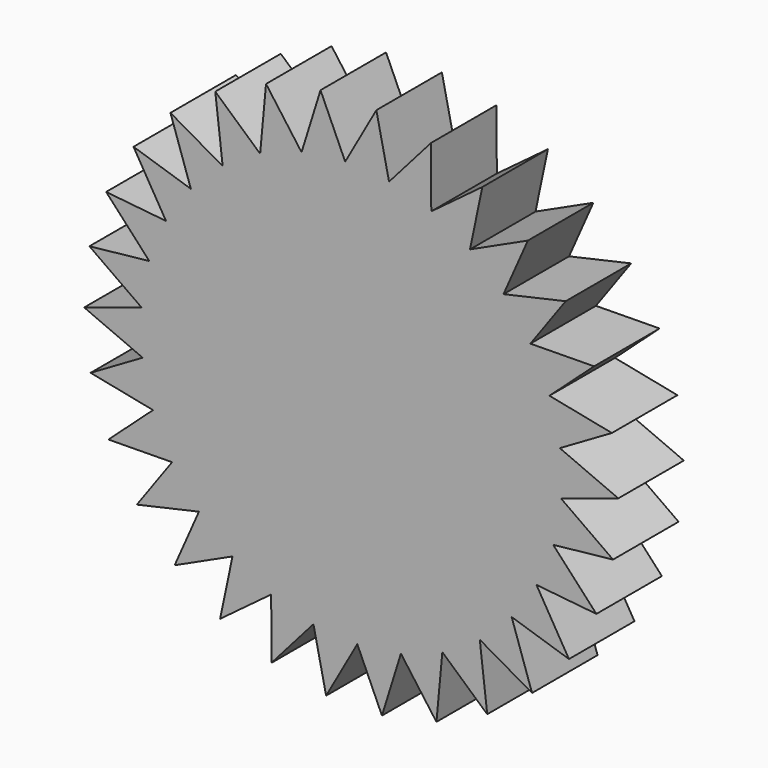
from build123d import *

# Parameters (mm, degrees)
F1_DEPTH = 10.16
F2_R     = 25.4
F3_DEPTH = 10.16


with BuildPart() as f1:
    # F0 (on Front) → F1 (new body)
    with BuildSketch(Plane.XZ):
        with BuildLine():
            ThreePointArc((25.2112005568, 3.0911755833), (25.3527562026, 1.5484679297), (25.4, 0))
            ThreePointArc((25.4, 0), (25.3888981273, -0.750900713), (25.3556022141, -1.5011450163))
            Line((25.3556022141, -1.5011450163), (26.0305752657, -1.9793416351))
            Line((26.0305752657, -1.9793416351), (33.1276639033, 0.3492854048))
            Line((33.1276639033, 0.3492854048), (25.8732730079, 3.475972645))
            Line((25.8732730079, 3.475972645), (25.2112005568, 3.0911755833))
        make_face()
        with BuildLine():
            ThreePointArc((25.1136270694, 3.803384732), (25.164933526, 3.4476253613), (25.2112005568, 3.0911755833))
            Line((25.2112005568, 3.0911755833), (25.8732730079, 3.475972645))
            Line((25.8732730079, 3.475972645), (25.1136270694, 3.803384732))
        make_face()
        with BuildLine():
            Line((26.0305752657, -1.9793416351), (25.3556022141, -1.5011450163))
            ThreePointArc((25.3556022141, -1.5011450163), (25.3318209693, -1.8597974033), (25.3029668784, -2.218077355))
            Line((25.3029668784, -2.218077355), (26.0305752657, -1.9793416351))
        make_face()
        with BuildLine():
            ThreePointArc((24.0175837941, 8.2653293156), (24.6667024062, 6.0591907386), (25.1136270694, 3.803384732))
            Line((25.1136270694, 3.803384732), (25.8732730079, 3.475972645))
            Line((25.8732730079, 3.475972645), (32.3311244458, 7.2292812957))
            Line((32.3311244458, 7.2292812957), (24.5851845659, 8.779370241))
            Line((24.5851845659, 8.779370241), (24.0175837941, 8.2653293156))
        make_face()
        with BuildLine():
            Line((26.0305752657, -1.9793416351), (25.3029668784, -2.218077355))
            ThreePointArc((25.3029668784, -2.218077355), (24.9986488389, -4.4975055562), (24.4894158724, -6.740067524))
            Line((24.4894158724, -6.740067524), (25.0502164758, -7.3481491879))
            Line((25.0502164758, -7.3481491879), (32.476365484, -6.5459759343))
            Line((32.476365484, -6.5459759343), (26.0305752657, -1.9793416351))
        make_face()
        with BuildLine():
            ThreePointArc((23.7740659132, 8.9416883169), (23.8982177329, 8.6043703541), (24.0175837941, 8.2653293156))
            Line((24.0175837941, 8.2653293156), (24.5851845659, 8.779370241))
            Line((24.5851845659, 8.779370241), (23.7740659132, 8.9416883169))
        make_face()
        with BuildLine():
            Line((25.0502164758, -7.3481491879), (24.4894158724, -6.740067524))
            ThreePointArc((24.4894158724, -6.740067524), (24.3915862806, -7.0859380971), (24.2888721303, -7.4303896694))
            Line((24.2888721303, -7.4303896694), (25.0502164758, -7.3481491879))
        make_face()
        with BuildLine():
            ThreePointArc((21.7742833704, 13.0782484953), (22.8678991852, 11.0552786875), (23.7740659132, 8.9416883169))
            Line((23.7740659132, 8.9416883169), (24.5851845659, 8.779370241))
            Line((24.5851845659, 8.779370241), (30.1215597081, 13.793322904))
            Line((30.1215597081, 13.793322904), (22.2226055856, 13.6990672294))
            Line((22.2226055856, 13.6990672294), (21.7742833704, 13.0782484953))
        make_face()
        with BuildLine():
            Line((25.0502164758, -7.3481491879), (24.2888721303, -7.4303896694))
            ThreePointArc((24.2888721303, -7.4303896694), (23.5172843987, -9.5967356174), (22.5529245438, -11.6844167386))
            Line((22.5529245438, -11.6844167386), (22.9750430216, -12.3958073608))
            Line((22.9750430216, -12.3958073608), (30.4056940542, -13.155146714))
            Line((30.4056940542, -13.155146714), (25.0502164758, -7.3481491879))
        make_face()
        with BuildLine():
            ThreePointArc((21.3954639959, 13.6891972153), (21.5870351485, 13.3850630741), (21.7742833704, 13.0782484953))
            Line((21.7742833704, 13.0782484953), (22.2226055856, 13.6990672294))
            Line((22.2226055856, 13.6990672294), (21.3954639959, 13.6891972153))
        make_face()
        with BuildLine():
            Line((22.9750430216, -12.3958073608), (22.5529245438, -11.6844167386))
            ThreePointArc((22.5529245438, -11.6844167386), (22.3853222277, -12.002389294), (22.2132371191, -12.3179583003))
            Line((22.2132371191, -12.3179583003), (22.9750430216, -12.3958073608))
        make_face()
        with BuildLine():
            ThreePointArc((18.5793422789, 17.3195854594), (20.0696590374, 15.5681979086), (21.3954639959, 13.6891972153))
            Line((21.3954639959, 13.6891972153), (22.2226055856, 13.6990672294))
            Line((22.2226055856, 13.6990672294), (26.5955382719, 19.7545301137))
            Line((26.5955382719, 19.7545301137), (18.8887921054, 18.0200492444))
            Line((18.8887921054, 18.0200492444), (18.5793422789, 17.3195854594))
        make_face()
        with BuildLine():
            Line((22.9750430216, -12.3958073608), (22.2132371191, -12.3179583003))
            ThreePointArc((22.2132371191, -12.3179583003), (21.0081017818, -14.2765422818), (19.6307621917, -16.1181008736))
            Line((19.6307621917, -16.1181008736), (19.8957499409, -16.9017092703))
            Line((19.8957499409, -16.9017092703), (27.0061478915, -19.1893744569))
            Line((27.0061478915, -19.1893744569), (22.9750430216, -12.3958073608))
        make_face()
        with BuildLine():
            ThreePointArc((18.0817776352, 17.8384225073), (18.332395542, 17.580764309), (18.5793422789, 17.3195854594))
            Line((18.5793422789, 17.3195854594), (18.8887921054, 18.0200492444))
            Line((18.8887921054, 18.0200492444), (18.0817776352, 17.8384225073))
        make_face()
        with BuildLine():
            Line((19.8957499409, -16.9017092703), (19.6307621917, -16.1181008736))
            ThreePointArc((19.6307621917, -16.1181008736), (19.4007121767, -16.3942784848), (19.166777055, -16.6671730454))
            Line((19.166777055, -16.6671730454), (19.8957499409, -16.9017092703))
        make_face()
        with BuildLine():
            ThreePointArc((14.5723947762, 20.8039734303), (16.3942784848, 19.4007121767), (18.0817776352, 17.8384225073))
            Line((18.0817776352, 17.8384225073), (18.8887921054, 18.0200492444))
            Line((18.8887921054, 18.0200492444), (21.9071641936, 24.8523695646))
            Line((21.9071641936, 24.8523695646), (14.7294477716, 21.5534686376))
            Line((14.7294477716, 21.5534686376), (14.5723947762, 20.8039734303))
        make_face()
        with BuildLine():
            Line((19.8957499409, -16.9017092703), (19.166777055, -16.6671730454))
            ThreePointArc((19.166777055, -16.6671730454), (17.580764309, -18.332395542), (15.850641333, -19.8473466572))
            Line((15.850641333, -19.8473466572), (15.9469171174, -20.6689253814))
            Line((15.9469171174, -20.6689253814), (22.4263034761, -24.3849344552))
            Line((22.4263034761, -24.3849344552), (19.8957499409, -16.9017092703))
        make_face()
        with BuildLine():
            ThreePointArc((13.9778308259, 21.2080231375), (14.2765422818, 21.0081017818), (14.5723947762, 20.8039734303))
            Line((14.5723947762, 20.8039734303), (14.7294477716, 21.5534686376))
            Line((14.7294477716, 21.5534686376), (13.9778308259, 21.2080231375))
        make_face()
        with BuildLine():
            Line((15.9469171174, -20.6689253814), (15.850641333, -19.8473466572))
            ThreePointArc((15.850641333, -19.8473466572), (15.5681979086, -20.0696590374), (15.2826368611, -20.2879523504))
            Line((15.2826368611, -20.2879523504), (15.9469171174, -20.6689253814))
        make_face()
        with BuildLine():
            ThreePointArc((9.9285636957, 23.3791279337), (12.002389294, 22.3853222277), (13.9778308259, 21.2080231375))
            Line((13.9778308259, 21.2080231375), (14.7294477716, 21.5534686376))
            Line((14.7294477716, 21.5534686376), (16.2613419179, 28.8640412107))
            Line((16.2613419179, 28.8640412107), (9.9263558905, 24.1448980264))
            Line((9.9263558905, 24.1448980264), (9.9285636957, 23.3791279337))
        make_face()
        with BuildLine():
            Line((15.9469171174, -20.6689253814), (15.2826368611, -20.2879523504))
            ThreePointArc((15.2826368611, -20.2879523504), (13.3850630741, -21.5870351485), (11.3777713882, -22.7091681538))
            Line((11.3777713882, -22.7091681538), (11.3011274941, -23.5328102727))
            Line((11.3011274941, -23.5328102727), (16.8663219854, -28.5147558059))
            Line((16.8663219854, -28.5147558059), (15.9469171174, -20.6689253814))
        make_face()
        with BuildLine():
            ThreePointArc((9.2629857364, 23.6507313893), (9.5967356174, 23.5172843987), (9.9285636957, 23.3791279337))
            Line((9.9285636957, 23.3791279337), (9.9263558905, 24.1448980264))
            Line((9.9263558905, 24.1448980264), (9.2629857364, 23.6507313893))
        make_face()
        with BuildLine():
            Line((11.3011274941, -23.5328102727), (11.3777713882, -22.7091681538))
            ThreePointArc((11.3777713882, -22.7091681538), (11.0552786875, -22.8678991852), (10.7305721022, -23.0220507853))
            Line((10.7305721022, -23.0220507853), (11.3011274941, -23.5328102727))
        make_face()
        with BuildLine():
            ThreePointArc((4.8508067391, 24.932502361), (7.0859380971, 24.3915862806), (9.2629857364, 23.6507313893))
            Line((9.2629857364, 23.6507313893), (9.9263558905, 24.1448980264))
            Line((9.9263558905, 24.1448980264), (9.9048209697, 31.6142157509))
            Line((9.9048209697, 31.6142157509), (4.689434625, 25.6810795113))
            Line((4.689434625, 25.6810795113), (4.8508067391, 24.932502361))
        make_face()
        with BuildLine():
            Line((11.3011274941, -23.5328102727), (10.7305721022, -23.0220507853))
            ThreePointArc((10.7305721022, -23.0220507853), (8.6043703541, -23.8982177329), (6.4076382372, -24.5784900314))
            Line((6.4076382372, -24.5784900314), (6.1614243704, -25.3681984322))
            Line((6.1614243704, -25.3681984322), (10.5692012904, -31.3983454989))
            Line((10.5692012904, -31.3983454989), (11.3011274941, -23.5328102727))
        make_face()
        with BuildLine():
            ThreePointArc((4.1433037215, 25.0597891905), (4.4975055562, 24.9986488389), (4.8508067391, 24.932502361))
            Line((4.8508067391, 24.932502361), (4.689434625, 25.6810795113))
            Line((4.689434625, 25.6810795113), (4.1433037215, 25.0597891905))
        make_face()
        with BuildLine():
            Line((6.1614243704, -25.3681984322), (6.4076382372, -24.5784900314))
            ThreePointArc((6.4076382372, -24.5784900314), (6.0591907386, -24.6667024062), (5.7095298514, -24.7499751288))
            Line((5.7095298514, -24.7499751288), (6.1614243704, -25.3681984322))
        make_face()
        with BuildLine():
            ThreePointArc((-0.4389537487, 25.3962067956), (1.8597974033, 25.3318209693), (4.1433037215, 25.0597891905))
            Line((4.1433037215, 25.0597891905), (4.689434625, 25.6810795113))
            Line((4.689434625, 25.6810795113), (3.1154118166, 32.9826973608))
            Line((3.1154118166, 32.9826973608), (-0.752437436, 26.0948745901))
            Line((-0.752437436, 26.0948745901), (-0.4389537487, 25.3962067956))
        make_face()
        with BuildLine():
            Line((6.1614243704, -25.3681984322), (5.7095298514, -24.7499751288))
            ThreePointArc((5.7095298514, -24.7499751288), (3.4476253613, -25.164933526), (1.1574605479, -25.3736139539))
            Line((1.1574605479, -25.3736139539), (0.752437436, -26.0948745901))
            Line((0.752437436, -26.0948745901), (3.8101557823, -32.9096768276))
            Line((3.8101557823, -32.9096768276), (6.1614243704, -25.3681984322))
        make_face()
        with BuildLine():
            ThreePointArc((-1.1574605479, 25.3736139539), (-0.7982870791, 25.387452368), (-0.4389537487, 25.3962067956))
            Line((-0.4389537487, 25.3962067956), (-0.752437436, 26.0948745901))
            Line((-0.752437436, 26.0948745901), (-1.1574605479, 25.3736139539))
        make_face()
        with BuildLine():
            Line((0.752437436, -26.0948745901), (1.1574605479, -25.3736139539))
            ThreePointArc((1.1574605479, -25.3736139539), (0.7982870791, -25.387452368), (0.4389537487, -25.3962067956))
            Line((0.4389537487, -25.3962067956), (0.752437436, -26.0948745901))
        make_face()
        with BuildLine():
            ThreePointArc((-5.7095298514, 24.7499751288), (-3.4476253613, 25.164933526), (-1.1574605479, 25.3736139539))
            Line((-1.1574605479, 25.3736139539), (-0.752437436, 26.0948745901))
            Line((-0.752437436, 26.0948745901), (-3.8101557823, 32.9096768276))
            Line((-3.8101557823, 32.9096768276), (-6.1614243704, 25.3681984322))
            Line((-6.1614243704, 25.3681984322), (-5.7095298514, 24.7499751288))
        make_face()
        with BuildLine():
            Line((0.752437436, -26.0948745901), (0.4389537487, -25.3962067956))
            ThreePointArc((0.4389537487, -25.3962067956), (-1.8597974033, -25.3318209693), (-4.1433037215, -25.0597891905))
            Line((-4.1433037215, -25.0597891905), (-4.689434625, -25.6810795113))
            Line((-4.689434625, -25.6810795113), (-3.1154118166, -32.9826973608))
            Line((-3.1154118166, -32.9826973608), (0.752437436, -26.0948745901))
        make_face()
        with BuildLine():
            ThreePointArc((-6.4076382372, 24.5784900314), (-6.0591907386, 24.6667024062), (-5.7095298514, 24.7499751288))
            Line((-5.7095298514, 24.7499751288), (-6.1614243704, 25.3681984322))
            Line((-6.1614243704, 25.3681984322), (-6.4076382372, 24.5784900314))
        make_face()
        with BuildLine():
            Line((-4.689434625, -25.6810795113), (-4.1433037215, -25.0597891905))
            ThreePointArc((-4.1433037215, -25.0597891905), (-4.4975055562, -24.9986488389), (-4.8508067391, -24.932502361))
            Line((-4.8508067391, -24.932502361), (-4.689434625, -25.6810795113))
        make_face()
        with BuildLine():
            ThreePointArc((-10.7305721022, 23.0220507853), (-8.6043703541, 23.8982177329), (-6.4076382372, 24.5784900314))
            Line((-6.4076382372, 24.5784900314), (-6.1614243704, 25.3681984322))
            Line((-6.1614243704, 25.3681984322), (-10.5692012904, 31.3983454989))
            Line((-10.5692012904, 31.3983454989), (-11.3011274941, 23.5328102727))
            Line((-11.3011274941, 23.5328102727), (-10.7305721022, 23.0220507853))
        make_face()
        with BuildLine():
            Line((-4.689434625, -25.6810795113), (-4.8508067391, -24.932502361))
            ThreePointArc((-4.8508067391, -24.932502361), (-7.0859380971, -24.3915862806), (-9.2629857364, -23.6507313893))
            Line((-9.2629857364, -23.6507313893), (-9.9263558905, -24.1448980264))
            Line((-9.9263558905, -24.1448980264), (-9.9048209697, -31.6142157509))
            Line((-9.9048209697, -31.6142157509), (-4.689434625, -25.6810795113))
        make_face()
        with BuildLine():
            ThreePointArc((-11.3777713882, 22.7091681538), (-11.0552786875, 22.8678991852), (-10.7305721022, 23.0220507853))
            Line((-10.7305721022, 23.0220507853), (-11.3011274941, 23.5328102727))
            Line((-11.3011274941, 23.5328102727), (-11.3777713882, 22.7091681538))
        make_face()
        with BuildLine():
            Line((-9.9263558905, -24.1448980264), (-9.2629857364, -23.6507313893))
            ThreePointArc((-9.2629857364, -23.6507313893), (-9.5967356174, -23.5172843987), (-9.9285636957, -23.3791279337))
            Line((-9.9285636957, -23.3791279337), (-9.9263558905, -24.1448980264))
        make_face()
        with BuildLine():
            ThreePointArc((-15.2826368611, 20.2879523504), (-13.3850630741, 21.5870351485), (-11.3777713882, 22.7091681538))
            Line((-11.3777713882, 22.7091681538), (-11.3011274941, 23.5328102727))
            Line((-11.3011274941, 23.5328102727), (-16.8663219854, 28.5147558059))
            Line((-16.8663219854, 28.5147558059), (-15.9469171174, 20.6689253814))
            Line((-15.9469171174, 20.6689253814), (-15.2826368611, 20.2879523504))
        make_face()
        with BuildLine():
            Line((-9.9263558905, -24.1448980264), (-9.9285636957, -23.3791279337))
            ThreePointArc((-9.9285636957, -23.3791279337), (-12.002389294, -22.3853222277), (-13.9778308259, -21.2080231375))
            Line((-13.9778308259, -21.2080231375), (-14.7294477716, -21.5534686376))
            Line((-14.7294477716, -21.5534686376), (-16.2613419179, -28.8640412107))
            Line((-16.2613419179, -28.8640412107), (-9.9263558905, -24.1448980264))
        make_face()
        with BuildLine():
            ThreePointArc((-15.850641333, 19.8473466572), (-15.5681979086, 20.0696590374), (-15.2826368611, 20.2879523504))
            Line((-15.2826368611, 20.2879523504), (-15.9469171174, 20.6689253814))
            Line((-15.9469171174, 20.6689253814), (-15.850641333, 19.8473466572))
        make_face()
        with BuildLine():
            Line((-14.7294477716, -21.5534686376), (-13.9778308259, -21.2080231375))
            ThreePointArc((-13.9778308259, -21.2080231375), (-14.2765422818, -21.0081017818), (-14.5723947762, -20.8039734303))
            Line((-14.5723947762, -20.8039734303), (-14.7294477716, -21.5534686376))
        make_face()
        with BuildLine():
            ThreePointArc((-19.166777055, 16.6671730454), (-17.580764309, 18.332395542), (-15.850641333, 19.8473466572))
            Line((-15.850641333, 19.8473466572), (-15.9469171174, 20.6689253814))
            Line((-15.9469171174, 20.6689253814), (-22.4263034761, 24.3849344552))
            Line((-22.4263034761, 24.3849344552), (-19.8957499409, 16.9017092703))
            Line((-19.8957499409, 16.9017092703), (-19.166777055, 16.6671730454))
        make_face()
        with BuildLine():
            Line((-14.7294477716, -21.5534686376), (-14.5723947762, -20.8039734303))
            ThreePointArc((-14.5723947762, -20.8039734303), (-16.3942784848, -19.4007121767), (-18.0817776352, -17.8384225073))
            Line((-18.0817776352, -17.8384225073), (-18.8887921054, -18.0200492444))
            Line((-18.8887921054, -18.0200492444), (-21.9071641936, -24.8523695646))
            Line((-21.9071641936, -24.8523695646), (-14.7294477716, -21.5534686376))
        make_face()
        with BuildLine():
            ThreePointArc((-19.6307621917, 16.1181008736), (-19.4007121767, 16.3942784848), (-19.166777055, 16.6671730454))
            Line((-19.166777055, 16.6671730454), (-19.8957499409, 16.9017092703))
            Line((-19.8957499409, 16.9017092703), (-19.6307621917, 16.1181008736))
        make_face()
        with BuildLine():
            Line((-18.8887921054, -18.0200492444), (-18.0817776352, -17.8384225073))
            ThreePointArc((-18.0817776352, -17.8384225073), (-18.332395542, -17.580764309), (-18.5793422789, -17.3195854594))
            Line((-18.5793422789, -17.3195854594), (-18.8887921054, -18.0200492444))
        make_face()
        with BuildLine():
            ThreePointArc((-22.2132371191, 12.3179583003), (-21.0081017818, 14.2765422818), (-19.6307621917, 16.1181008736))
            Line((-19.6307621917, 16.1181008736), (-19.8957499409, 16.9017092703))
            Line((-19.8957499409, 16.9017092703), (-27.0061478915, 19.1893744569))
            Line((-27.0061478915, 19.1893744569), (-22.9750430216, 12.3958073608))
            Line((-22.9750430216, 12.3958073608), (-22.2132371191, 12.3179583003))
        make_face()
        with BuildLine():
            Line((-18.8887921054, -18.0200492444), (-18.5793422789, -17.3195854594))
            ThreePointArc((-18.5793422789, -17.3195854594), (-20.0696590374, -15.5681979086), (-21.3954639959, -13.6891972153))
            Line((-21.3954639959, -13.6891972153), (-22.2226055856, -13.6990672294))
            Line((-22.2226055856, -13.6990672294), (-26.5955382719, -19.7545301137))
            Line((-26.5955382719, -19.7545301137), (-18.8887921054, -18.0200492444))
        make_face()
        with BuildLine():
            ThreePointArc((-22.5529245438, 11.6844167386), (-22.3853222277, 12.002389294), (-22.2132371191, 12.3179583003))
            Line((-22.2132371191, 12.3179583003), (-22.9750430216, 12.3958073608))
            Line((-22.9750430216, 12.3958073608), (-22.5529245438, 11.6844167386))
        make_face()
        with BuildLine():
            Line((-22.2226055856, -13.6990672294), (-21.3954639959, -13.6891972153))
            ThreePointArc((-21.3954639959, -13.6891972153), (-21.5870351485, -13.3850630741), (-21.7742833704, -13.0782484953))
            Line((-21.7742833704, -13.0782484953), (-22.2226055856, -13.6990672294))
        make_face()
        with BuildLine():
            ThreePointArc((-24.2888721303, 7.4303896694), (-23.5172843987, 9.5967356174), (-22.5529245438, 11.6844167386))
            Line((-22.5529245438, 11.6844167386), (-22.9750430216, 12.3958073608))
            Line((-22.9750430216, 12.3958073608), (-30.4056940542, 13.155146714))
            Line((-30.4056940542, 13.155146714), (-25.0502164758, 7.3481491879))
            Line((-25.0502164758, 7.3481491879), (-24.2888721303, 7.4303896694))
        make_face()
        with BuildLine():
            Line((-22.2226055856, -13.6990672294), (-21.7742833704, -13.0782484953))
            ThreePointArc((-21.7742833704, -13.0782484953), (-22.8678991852, -11.0552786875), (-23.7740659132, -8.9416883169))
            Line((-23.7740659132, -8.9416883169), (-24.5851845659, -8.779370241))
            Line((-24.5851845659, -8.779370241), (-30.1215597081, -13.793322904))
            Line((-30.1215597081, -13.793322904), (-22.2226055856, -13.6990672294))
        make_face()
        with BuildLine():
            ThreePointArc((-24.4894158724, 6.740067524), (-24.3915862806, 7.0859380971), (-24.2888721303, 7.4303896694))
            Line((-24.2888721303, 7.4303896694), (-25.0502164758, 7.3481491879))
            Line((-25.0502164758, 7.3481491879), (-24.4894158724, 6.740067524))
        make_face()
        with BuildLine():
            Line((-24.5851845659, -8.779370241), (-23.7740659132, -8.9416883169))
            ThreePointArc((-23.7740659132, -8.9416883169), (-23.8982177329, -8.6043703541), (-24.0175837941, -8.2653293156))
            Line((-24.0175837941, -8.2653293156), (-24.5851845659, -8.779370241))
        make_face()
        with BuildLine():
            ThreePointArc((-25.3029668784, 2.218077355), (-24.9986488389, 4.4975055562), (-24.4894158724, 6.740067524))
            Line((-24.4894158724, 6.740067524), (-25.0502164758, 7.3481491879))
            Line((-25.0502164758, 7.3481491879), (-32.476365484, 6.5459759343))
            Line((-32.476365484, 6.5459759343), (-26.0305752657, 1.9793416351))
            Line((-26.0305752657, 1.9793416351), (-25.3029668784, 2.218077355))
        make_face()
        with BuildLine():
            Line((-24.5851845659, -8.779370241), (-24.0175837941, -8.2653293156))
            ThreePointArc((-24.0175837941, -8.2653293156), (-24.6667024062, -6.0591907386), (-25.1136270694, -3.803384732))
            Line((-25.1136270694, -3.803384732), (-25.8732730079, -3.475972645))
            Line((-25.8732730079, -3.475972645), (-32.3311244458, -7.2292812957))
            Line((-32.3311244458, -7.2292812957), (-24.5851845659, -8.779370241))
        make_face()
        with BuildLine():
            ThreePointArc((-25.3556022141, 1.5011450163), (-25.3318209693, 1.8597974033), (-25.3029668784, 2.218077355))
            Line((-25.3029668784, 2.218077355), (-26.0305752657, 1.9793416351))
            Line((-26.0305752657, 1.9793416351), (-25.3556022141, 1.5011450163))
        make_face()
        with BuildLine():
            Line((-25.8732730079, -3.475972645), (-25.1136270694, -3.803384732))
            ThreePointArc((-25.1136270694, -3.803384732), (-25.164933526, -3.4476253613), (-25.2112005568, -3.0911755833))
            Line((-25.2112005568, -3.0911755833), (-25.8732730079, -3.475972645))
        make_face()
        with BuildLine():
            ThreePointArc((-25.2112005568, -3.0911755833), (-25.387452368, -0.7982870791), (-25.3556022141, 1.5011450163))
            Line((-25.3556022141, 1.5011450163), (-26.0305752657, 1.9793416351))
            Line((-26.0305752657, 1.9793416351), (-33.1276639033, -0.3492854048))
            Line((-33.1276639033, -0.3492854048), (-25.8732730079, -3.475972645))
            Line((-25.8732730079, -3.475972645), (-25.2112005568, -3.0911755833))
        make_face()
    extrude(amount=F1_DEPTH)

    # F2 (on Front) → F3 (join)
    with BuildSketch(Plane.XZ):
        Circle(F2_R)
    extrude(amount=F3_DEPTH)


solid = f1.part
